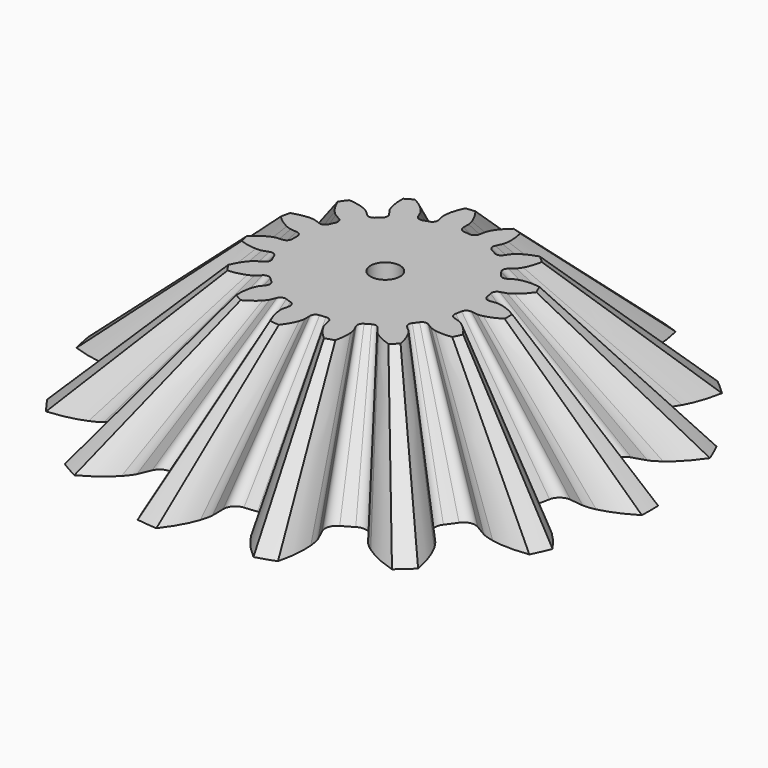
from build123d import *

# Parameters (mm, degrees)
SKETCH_R     = 0.95
POCKET_DEPTH = 8


with BuildPart() as part:
    # InvoluteGear001 → Loft section 0
    with BuildSketch(Plane.XY.offset(8)):
        with BuildLine():
            Line((6.121836, -0.735833), (6.522951, -0.783319))
            add(Edge.make_bspline(
                [(6.522951, -0.783319), (6.563364, -0.785395), (6.684848, -0.786176), (6.888225, -0.740773)],
                knots=[0, 0, 0, 0, 1, 1, 1, 1], degree=3))
            add(Edge.make_bspline(
                [(6.888225, -0.740773), (7.130918, -0.685495), (7.478291, -0.564927), (7.900262, -0.304685)],
                knots=[0, 0, 0, 0, 1, 1, 1, 1], degree=3))
            ThreePointArc((7.900262, -0.304685), (7.905568, 0.000242), (7.899108, 0.305147))
            add(Edge.make_bspline(
                [(7.899108, 0.305147), (7.478291, 0.564927), (7.130918, 0.685495), (6.888225, 0.740773)],
                knots=[0, 0, 0, 0, 1, 1, 1, 1], degree=3))
            add(Edge.make_bspline(
                [(6.888225, 0.740773), (6.684848, 0.786176), (6.563364, 0.785395), (6.522951, 0.783319)],
                knots=[0, 0, 0, 0, 1, 1, 1, 1], degree=3))
            Line((6.522951, 0.783319), (6.121836, 0.735833))
            ThreePointArc((6.121836, 0.735833), (5.863653, 0.798182), (5.721814, 1.022744))
            ThreePointArc((5.721814, 1.022744), (5.685483, 1.208487), (5.643124, 1.392948))
            ThreePointArc((5.643124, 1.392948), (5.681363, 1.655786), (5.891865, 1.817758))
            Line((5.891865, 1.817758), (6.277616, 1.937525))
            add(Edge.make_bspline(
                [(6.277616, 1.937525), (6.315381, 1.952067), (6.426679, 2.000765), (6.594006, 2.124964)],
                knots=[0, 0, 0, 0, 1, 1, 1, 1], degree=3))
            add(Edge.make_bspline(
                [(6.594006, 2.124964), (6.793234, 2.274175), (7.061536, 2.525609), (7.341175, 2.934983)],
                knots=[0, 0, 0, 0, 1, 1, 1, 1], degree=3))
            ThreePointArc((7.341175, 2.934983), (7.221997, 3.215705), (7.09208, 3.491622))
            add(Edge.make_bspline(
                [(7.09208, 3.491622), (6.601983, 3.557782), (6.235602, 3.526636), (5.991408, 3.478423)],
                knots=[0, 0, 0, 0, 1, 1, 1, 1], degree=3))
            add(Edge.make_bspline(
                [(5.991408, 3.478423), (5.787146, 3.43718), (5.676483, 3.387055), (5.640407, 3.368721)],
                knots=[0, 0, 0, 0, 1, 1, 1, 1], degree=3))
            Line((5.640407, 3.368721), (5.293285, 3.162191))
            ThreePointArc((5.293285, 3.162191), (5.032063, 3.114138), (4.81115, 3.261594))
            ThreePointArc((4.81115, 3.261594), (4.702411, 3.416502), (4.588687, 3.567787))
            ThreePointArc((4.588687, 3.567787), (4.516715, 3.823455), (4.643138, 4.057042))
            Line((4.643138, 4.057042), (4.946825, 4.323354))
            add(Edge.make_bspline(
                [(4.946825, 4.323354), (4.97541, 4.351998), (5.057279, 4.441756), (5.159624, 4.623275)],
                knots=[0, 0, 0, 0, 1, 1, 1, 1], degree=3))
            add(Edge.make_bspline(
                [(5.159624, 4.623275), (5.280937, 4.840619), (5.423776, 5.179444), (5.512732, 5.667165)],
                knots=[0, 0, 0, 0, 1, 1, 1, 1], degree=3))
            ThreePointArc((5.512732, 5.667165), (5.289678, 5.875144), (5.058767, 6.074364))
            add(Edge.make_bspline(
                [(5.058767, 6.074364), (4.584131, 5.935464), (4.262094, 5.75799), (4.058621, 5.614623)],
                knots=[0, 0, 0, 0, 1, 1, 1, 1], degree=3))
            add(Edge.make_bspline(
                [(4.058621, 5.614623), (3.888794, 5.493864), (3.808086, 5.403062), (3.782586, 5.37164)],
                knots=[0, 0, 0, 0, 1, 1, 1, 1], degree=3))
            Line((3.782586, 5.37164), (3.549477, 5.041779))
            ThreePointArc((3.549477, 5.041779), (3.330384, 4.891631), (3.068594, 4.936485))
            ThreePointArc((3.068594, 4.936485), (2.90625, 5.033773), (2.740825, 5.125723))
            ThreePointArc((2.740825, 5.125723), (2.571085, 5.330013), (2.59157, 5.594827))
            Line((2.59157, 5.594827), (2.760683, 5.961636))
            add(Edge.make_bspline(
                [(2.760683, 5.961636), (2.775146, 5.99943), (2.813429, 6.114727), (2.833095, 6.32218)],
                knots=[0, 0, 0, 0, 1, 1, 1, 1], degree=3))
            add(Edge.make_bspline(
                [(2.833095, 6.32218), (2.855519, 6.570077), (2.848197, 6.937706), (2.731088, 7.419443)],
                knots=[0, 0, 0, 0, 1, 1, 1, 1], degree=3))
            ThreePointArc((2.731088, 7.419443), (2.442725, 7.518717), (2.150747, 7.606794))
            add(Edge.make_bspline(
                [(2.150747, 7.606794), (1.773641, 7.28685), (1.551631, 6.993736), (1.424062, 6.780003)],
                knots=[0, 0, 0, 0, 1, 1, 1, 1], degree=3))
            add(Edge.make_bspline(
                [(1.424062, 6.780003), (1.318034, 6.60061), (1.281236, 6.484831), (1.270722, 6.445754)],
                knots=[0, 0, 0, 0, 1, 1, 1, 1], degree=3))
            Line((1.270722, 6.445754), (1.191933, 6.049597))
            ThreePointArc((1.191933, 6.049597), (1.052852, 5.823317), (0.795451, 5.757813))
            ThreePointArc((0.795451, 5.757813), (0.607572, 5.780659), (0.419049, 5.797375))
            ThreePointArc((0.419049, 5.797375), (0.180891, 5.914964), (0.091896, 6.165215))
            Line((0.091896, 6.165215), (0.097194, 6.569096))
            add(Edge.make_bspline(
                [(0.097194, 6.569096), (0.095034, 6.609506), (0.083112, 6.730405), (0.016699, 6.927923)],
                knots=[0, 0, 0, 0, 1, 1, 1, 1], degree=3))
            add(Edge.make_bspline(
                [(0.016699, 6.927923), (-0.063644, 7.163508), (-0.219862, 7.496376), (-0.522787, 7.888832)],
                knots=[0, 0, 0, 0, 1, 1, 1, 1], degree=3))
            ThreePointArc((-0.522787, 7.888832), (-0.826598, 7.862235), (-1.129157, 7.82394))
            add(Edge.make_bspline(
                [(-1.129157, 7.82394), (-1.343527, 7.378274), (-1.427123, 7.0202), (-1.45673, 6.773059)],
                knots=[0, 0, 0, 0, 1, 1, 1, 1], degree=3))
            add(Edge.make_bspline(
                [(-1.45673, 6.773059), (-1.480626, 6.56605), (-1.467151, 6.445313), (-1.460862, 6.405338)],
                knots=[0, 0, 0, 0, 1, 1, 1, 1], degree=3))
            Line((-1.460862, 6.405338), (-1.371708, 6.011384))
            ThreePointArc((-1.371708, 6.011384), (-1.406728, 5.748098), (-1.615233, 5.583563))
            ThreePointArc((-1.615233, 5.583563), (-1.796161, 5.528016), (-1.975185, 5.466608))
            ThreePointArc((-1.975185, 5.466608), (-2.24058, 5.477163), (-2.423668, 5.669582))
            Line((-2.423668, 5.669582), (-2.583101, 6.0407))
            add(Edge.make_bspline(
                [(-2.583101, 6.0407), (-2.60151, 6.076738), (-2.661576, 6.182336), (-2.802585, 6.335765)],
                knots=[0, 0, 0, 0, 1, 1, 1, 1], degree=3))
            add(Edge.make_bspline(
                [(-2.802585, 6.335765), (-2.971803, 6.518304), (-3.249904, 6.758854), (-3.686267, 6.99417)],
                knots=[0, 0, 0, 0, 1, 1, 1, 1], degree=3))
            ThreePointArc((-3.686267, 6.99417), (-3.952994, 6.846302), (-4.213819, 6.688255))
            add(Edge.make_bspline(
                [(-4.213819, 6.688255), (-4.228387, 6.193927), (-4.159115, 5.832809), (-4.085641, 5.594992)],
                knots=[0, 0, 0, 0, 1, 1, 1, 1], degree=3))
            add(Edge.make_bspline(
                [(-4.085641, 5.594992), (-4.023272, 5.39616), (-3.961854, 5.291343), (-3.93985, 5.257381)],
                knots=[0, 0, 0, 0, 1, 1, 1, 1], degree=3))
            Line((-3.93985, 5.257381), (-3.698168, 4.933749))
            ThreePointArc((-3.698168, 4.933749), (-3.623073, 4.678981), (-3.746629, 4.443864))
            ThreePointArc((-3.746629, 4.443864), (-3.889322, 4.319529), (-4.027891, 4.190615))
            ThreePointArc((-4.027891, 4.190615), (-4.274635, 4.092312), (-4.520158, 4.193626))
            Line((-4.520158, 4.193626), (-4.816754, 4.467813))
            add(Edge.make_bspline(
                [(-4.816754, 4.467813), (-4.84823, 4.493247), (-4.946053, 4.565285), (-5.137276, 4.648095)],
                knots=[0, 0, 0, 0, 1, 1, 1, 1], degree=3))
            add(Edge.make_bspline(
                [(-5.137276, 4.648095), (-5.36611, 4.746025), (-5.718009, 4.852665), (-6.212357, 4.890153)],
                knots=[0, 0, 0, 0, 1, 1, 1, 1], degree=3))
            ThreePointArc((-6.212357, 4.890153), (-6.395881, 4.646581), (-6.569874, 4.39611))
            add(Edge.make_bspline(
                [(-6.569874, 4.39611), (-6.382121, 3.938594), (-6.171958, 3.636872), (-6.008107, 3.4495)],
                knots=[0, 0, 0, 0, 1, 1, 1, 1], degree=3))
            add(Edge.make_bspline(
                [(-6.008107, 3.4495), (-5.870258, 3.293226), (-5.771517, 3.222451), (-5.737601, 3.200376)],
                knots=[0, 0, 0, 0, 1, 1, 1, 1], degree=3))
            Line((-5.737601, 3.200376), (-5.385181, 3.003024))
            ThreePointArc((-5.385181, 3.003024), (-5.212954, 2.800825), (-5.230198, 2.535781))
            ThreePointArc((-5.230198, 2.535781), (-5.309983, 2.364157), (-5.384138, 2.190026))
            ThreePointArc((-5.384138, 2.190026), (-5.569566, 1.999862), (-5.835071, 1.992554))
            Line((-5.835071, 1.992554), (-6.217547, 2.122399))
            add(Edge.make_bspline(
                [(-6.217547, 2.122399), (-6.256646, 2.132832), (-6.375313, 2.158854), (-6.583686, 2.156728)],
                knots=[0, 0, 0, 0, 1, 1, 1, 1], degree=3))
            add(Edge.make_bspline(
                [(-6.583686, 2.156728), (-6.832568, 2.153116), (-7.197418, 2.107406), (-7.664275, 1.940584)],
                knots=[0, 0, 0, 0, 1, 1, 1, 1], degree=3))
            ThreePointArc((-7.664275, 1.940584), (-7.732863, 1.643423), (-7.789937, 1.343838))
            add(Edge.make_bspline(
                [(-7.789937, 1.343838), (-7.432328, 1.002242), (-7.117613, 0.812086), (-6.891716, 0.707558)],
                knots=[0, 0, 0, 0, 1, 1, 1, 1], degree=3))
            add(Edge.make_bspline(
                [(-6.891716, 0.707558), (-6.702223, 0.620862), (-6.583232, 0.596368), (-6.54327, 0.589996)],
                knots=[0, 0, 0, 0, 1, 1, 1, 1], degree=3))
            Line((-6.54327, 0.589996), (-6.141047, 0.553048))
            ThreePointArc((-6.141047, 0.553048), (-5.901469, 0.438382), (-5.809419, 0.189238))
            ThreePointArc((-5.809419, 0.189238), (-5.8125, 0), (-5.809419, -0.189238))
            ThreePointArc((-5.809419, -0.189238), (-5.901469, -0.438382), (-6.141047, -0.553048))
            Line((-6.141047, -0.553048), (-6.54327, -0.589996))
            add(Edge.make_bspline(
                [(-6.54327, -0.589996), (-6.583232, -0.596368), (-6.702223, -0.620862), (-6.891716, -0.707558)],
                knots=[0, 0, 0, 0, 1, 1, 1, 1], degree=3))
            add(Edge.make_bspline(
                [(-6.891716, -0.707558), (-7.117613, -0.812086), (-7.432328, -1.002242), (-7.79097, -1.34453)],
                knots=[0, 0, 0, 0, 1, 1, 1, 1], degree=3))
            ThreePointArc((-7.79097, -1.34453), (-7.732762, -1.643897), (-7.66305, -1.940795))
            add(Edge.make_bspline(
                [(-7.66305, -1.940795), (-7.197418, -2.107406), (-6.832568, -2.153116), (-6.583686, -2.156728)],
                knots=[0, 0, 0, 0, 1, 1, 1, 1], degree=3))
            add(Edge.make_bspline(
                [(-6.583686, -2.156728), (-6.375313, -2.158854), (-6.256646, -2.132832), (-6.217547, -2.122399)],
                knots=[0, 0, 0, 0, 1, 1, 1, 1], degree=3))
            Line((-6.217547, -2.122399), (-5.835071, -1.992554))
            ThreePointArc((-5.835071, -1.992554), (-5.569566, -1.999862), (-5.384138, -2.190026))
            ThreePointArc((-5.384138, -2.190026), (-5.309983, -2.364157), (-5.230198, -2.535781))
            ThreePointArc((-5.230198, -2.535781), (-5.212954, -2.800825), (-5.385181, -3.003024))
            Line((-5.385181, -3.003024), (-5.737601, -3.200376))
            add(Edge.make_bspline(
                [(-5.737601, -3.200376), (-5.771517, -3.222451), (-5.870258, -3.293226), (-6.008107, -3.4495)],
                knots=[0, 0, 0, 0, 1, 1, 1, 1], degree=3))
            add(Edge.make_bspline(
                [(-6.008107, -3.4495), (-6.171958, -3.636872), (-6.382121, -3.938594), (-6.570536, -4.397163)],
                knots=[0, 0, 0, 0, 1, 1, 1, 1], degree=3))
            ThreePointArc((-6.570536, -4.397163), (-6.395597, -4.646972), (-6.211152, -4.889848))
            add(Edge.make_bspline(
                [(-6.211152, -4.889848), (-5.718009, -4.852665), (-5.36611, -4.746025), (-5.137276, -4.648095)],
                knots=[0, 0, 0, 0, 1, 1, 1, 1], degree=3))
            add(Edge.make_bspline(
                [(-5.137276, -4.648095), (-4.946053, -4.565285), (-4.84823, -4.493247), (-4.816754, -4.467813)],
                knots=[0, 0, 0, 0, 1, 1, 1, 1], degree=3))
            Line((-4.816754, -4.467813), (-4.520158, -4.193626))
            ThreePointArc((-4.520158, -4.193626), (-4.274635, -4.092312), (-4.027891, -4.190615))
            ThreePointArc((-4.027891, -4.190615), (-3.889322, -4.319529), (-3.746629, -4.443864))
            ThreePointArc((-3.746629, -4.443864), (-3.623073, -4.678981), (-3.698168, -4.933749))
            Line((-3.698168, -4.933749), (-3.93985, -5.257381))
            add(Edge.make_bspline(
                [(-3.93985, -5.257381), (-3.961854, -5.291343), (-4.023272, -5.39616), (-4.085641, -5.594992)],
                knots=[0, 0, 0, 0, 1, 1, 1, 1], degree=3))
            add(Edge.make_bspline(
                [(-4.085641, -5.594992), (-4.159115, -5.832809), (-4.228387, -6.193927), (-4.213996, -6.689486)],
                knots=[0, 0, 0, 0, 1, 1, 1, 1], degree=3))
            ThreePointArc((-4.213996, -6.689486), (-3.952574, -6.846544), (-3.685289, -6.993402))
            add(Edge.make_bspline(
                [(-3.685289, -6.993402), (-3.249904, -6.758854), (-2.971803, -6.518304), (-2.802585, -6.335765)],
                knots=[0, 0, 0, 0, 1, 1, 1, 1], degree=3))
            add(Edge.make_bspline(
                [(-2.802585, -6.335765), (-2.661576, -6.182336), (-2.60151, -6.076738), (-2.583101, -6.0407)],
                knots=[0, 0, 0, 0, 1, 1, 1, 1], degree=3))
            Line((-2.583101, -6.0407), (-2.423668, -5.669582))
            ThreePointArc((-2.423668, -5.669582), (-2.24058, -5.477163), (-1.975185, -5.466608))
            ThreePointArc((-1.975185, -5.466608), (-1.796161, -5.528016), (-1.615233, -5.583563))
            ThreePointArc((-1.615233, -5.583563), (-1.406728, -5.748098), (-1.371708, -6.011384))
            Line((-1.371708, -6.011384), (-1.460862, -6.405338))
            add(Edge.make_bspline(
                [(-1.460862, -6.405338), (-1.467151, -6.445313), (-1.480626, -6.56605), (-1.45673, -6.773059)],
                knots=[0, 0, 0, 0, 1, 1, 1, 1], degree=3))
            add(Edge.make_bspline(
                [(-1.45673, -6.773059), (-1.427123, -7.0202), (-1.343527, -7.378274), (-1.128818, -7.825136)],
                knots=[0, 0, 0, 0, 1, 1, 1, 1], degree=3))
            ThreePointArc((-1.128818, -7.825136), (-0.826116, -7.862286), (-0.522207, -7.887733))
            add(Edge.make_bspline(
                [(-0.522207, -7.887733), (-0.219862, -7.496376), (-0.063644, -7.163508), (0.016699, -6.927923)],
                knots=[0, 0, 0, 0, 1, 1, 1, 1], degree=3))
            add(Edge.make_bspline(
                [(0.016699, -6.927923), (0.083112, -6.730405), (0.095034, -6.609506), (0.097194, -6.569096)],
                knots=[0, 0, 0, 0, 1, 1, 1, 1], degree=3))
            Line((0.097194, -6.569096), (0.091896, -6.165215))
            ThreePointArc((0.091896, -6.165215), (0.180891, -5.914964), (0.419049, -5.797375))
            ThreePointArc((0.419049, -5.797375), (0.607572, -5.780659), (0.795451, -5.757813))
            ThreePointArc((0.795451, -5.757813), (1.052852, -5.823317), (1.191933, -6.049597))
            Line((1.191933, -6.049597), (1.270722, -6.445754))
            add(Edge.make_bspline(
                [(1.270722, -6.445754), (1.281236, -6.484831), (1.318034, -6.60061), (1.424062, -6.780003)],
                knots=[0, 0, 0, 0, 1, 1, 1, 1], degree=3))
            add(Edge.make_bspline(
                [(1.424062, -6.780003), (1.551631, -6.993736), (1.773641, -7.28685), (2.151543, -7.607749)],
                knots=[0, 0, 0, 0, 1, 1, 1, 1], degree=3))
            ThreePointArc((2.151543, -7.607749), (2.443185, -7.518567), (2.73117, -7.418203))
            add(Edge.make_bspline(
                [(2.73117, -7.418203), (2.848197, -6.937706), (2.855519, -6.570077), (2.833095, -6.32218)],
                knots=[0, 0, 0, 0, 1, 1, 1, 1], degree=3))
            add(Edge.make_bspline(
                [(2.833095, -6.32218), (2.813429, -6.114727), (2.775146, -5.99943), (2.760683, -5.961636)],
                knots=[0, 0, 0, 0, 1, 1, 1, 1], degree=3))
            Line((2.760683, -5.961636), (2.59157, -5.594827))
            ThreePointArc((2.59157, -5.594827), (2.571085, -5.330013), (2.740825, -5.125723))
            ThreePointArc((2.740825, -5.125723), (2.90625, -5.033773), (3.068594, -4.936485))
            ThreePointArc((3.068594, -4.936485), (3.330384, -4.891631), (3.549477, -5.041779))
            Line((3.549477, -5.041779), (3.782586, -5.37164))
            add(Edge.make_bspline(
                [(3.782586, -5.37164), (3.808086, -5.403062), (3.888794, -5.493864), (4.058621, -5.614623)],
                knots=[0, 0, 0, 0, 1, 1, 1, 1], degree=3))
            add(Edge.make_bspline(
                [(4.058621, -5.614623), (4.262094, -5.75799), (4.584131, -5.935464), (5.059883, -6.074913)],
                knots=[0, 0, 0, 0, 1, 1, 1, 1], degree=3))
            ThreePointArc((5.059883, -6.074913), (5.290038, -5.87482), (5.512303, -5.665998))
            add(Edge.make_bspline(
                [(5.512303, -5.665998), (5.423776, -5.179444), (5.280937, -4.840619), (5.159624, -4.623275)],
                knots=[0, 0, 0, 0, 1, 1, 1, 1], degree=3))
            add(Edge.make_bspline(
                [(5.159624, -4.623275), (5.057279, -4.441756), (4.97541, -4.351998), (4.946825, -4.323354)],
                knots=[0, 0, 0, 0, 1, 1, 1, 1], degree=3))
            Line((4.946825, -4.323354), (4.643138, -4.057042))
            ThreePointArc((4.643138, -4.057042), (4.516715, -3.823455), (4.588687, -3.567787))
            ThreePointArc((4.588687, -3.567787), (4.702411, -3.416502), (4.81115, -3.261594))
            ThreePointArc((4.81115, -3.261594), (5.032063, -3.114138), (5.293285, -3.162191))
            Line((5.293285, -3.162191), (5.640407, -3.368721))
            add(Edge.make_bspline(
                [(5.640407, -3.368721), (5.676483, -3.387055), (5.787146, -3.43718), (5.991408, -3.478423)],
                knots=[0, 0, 0, 0, 1, 1, 1, 1], degree=3))
            add(Edge.make_bspline(
                [(5.991408, -3.478423), (6.235602, -3.526636), (6.601983, -3.557782), (7.093322, -3.49167)],
                knots=[0, 0, 0, 0, 1, 1, 1, 1], degree=3))
            ThreePointArc((7.093322, -3.49167), (7.222194, -3.215263), (7.340309, -2.934091))
            add(Edge.make_bspline(
                [(7.340309, -2.934091), (7.061536, -2.525609), (6.793234, -2.274175), (6.594006, -2.124964)],
                knots=[0, 0, 0, 0, 1, 1, 1, 1], degree=3))
            add(Edge.make_bspline(
                [(6.594006, -2.124964), (6.426679, -2.000765), (6.315381, -1.952067), (6.277616, -1.937525)],
                knots=[0, 0, 0, 0, 1, 1, 1, 1], degree=3))
            Line((6.277616, -1.937525), (5.891865, -1.817758))
            ThreePointArc((5.891865, -1.817758), (5.681363, -1.655786), (5.643124, -1.392948))
            ThreePointArc((5.643124, -1.392948), (5.685483, -1.208487), (5.721814, -1.022744))
            ThreePointArc((5.721814, -1.022744), (5.863653, -0.798182), (6.121836, -0.735833))
        make_face()
    # InvoluteGear → Loft section 1
    with BuildSketch(Plane.XY):
        with BuildLine():
            Line((13.165238, -1.582436), (14.027851, -1.684557))
            add(Edge.make_bspline(
                [(14.027851, -1.684557), (14.114762, -1.689022), (14.376017, -1.6907), (14.813388, -1.593059)],
                knots=[0, 0, 0, 0, 1, 1, 1, 1], degree=3))
            add(Edge.make_bspline(
                [(14.813388, -1.593059), (15.335308, -1.474182), (16.082347, -1.214897), (16.989812, -0.655236)],
                knots=[0, 0, 0, 0, 1, 1, 1, 1], degree=3))
            ThreePointArc((16.989812, -0.655236), (17.001222, 0.000521), (16.987329, 0.656229))
            add(Edge.make_bspline(
                [(16.987329, 0.656229), (16.082347, 1.214897), (15.335308, 1.474182), (14.813388, 1.593059)],
                knots=[0, 0, 0, 0, 1, 1, 1, 1], degree=3))
            add(Edge.make_bspline(
                [(14.813388, 1.593059), (14.376017, 1.6907), (14.114762, 1.689022), (14.027851, 1.684557)],
                knots=[0, 0, 0, 0, 1, 1, 1, 1], degree=3))
            Line((14.027851, 1.684557), (13.165238, 1.582436))
            ThreePointArc((13.165238, 1.582436), (12.610006, 1.716521), (12.304976, 2.199449))
            ThreePointArc((12.304976, 2.199449), (12.226845, 2.598896), (12.135751, 2.995588))
            ThreePointArc((12.135751, 2.995588), (12.217985, 3.560831), (12.670678, 3.909158))
            Line((12.670678, 3.909158), (13.50025, 4.166721))
            add(Edge.make_bspline(
                [(13.50025, 4.166721), (13.581464, 4.197993), (13.820815, 4.302721), (14.180659, 4.569815)],
                knots=[0, 0, 0, 0, 1, 1, 1, 1], degree=3))
            add(Edge.make_bspline(
                [(14.180659, 4.569815), (14.609105, 4.890699), (15.186098, 5.431416), (15.787474, 6.311791)],
                knots=[0, 0, 0, 0, 1, 1, 1, 1], degree=3))
            ThreePointArc((15.787474, 6.311791), (15.531177, 6.915496), (15.251785, 7.508865))
            add(Edge.make_bspline(
                [(15.251785, 7.508865), (14.197812, 7.651144), (13.409897, 7.584164), (12.884748, 7.48048)],
                knots=[0, 0, 0, 0, 1, 1, 1, 1], degree=3))
            add(Edge.make_bspline(
                [(12.884748, 7.48048), (12.445476, 7.391785), (12.207489, 7.283989), (12.129908, 7.24456)],
                knots=[0, 0, 0, 0, 1, 1, 1, 1], degree=3))
            Line((12.129908, 7.24456), (11.383409, 6.800412))
            ThreePointArc((11.383409, 6.800412), (10.821641, 6.697072), (10.346558, 7.014181))
            ThreePointArc((10.346558, 7.014181), (10.112712, 7.347316), (9.868145, 7.67266))
            ThreePointArc((9.868145, 7.67266), (9.713365, 8.222483), (9.985243, 8.724823))
            Line((9.985243, 8.724823), (10.638334, 9.297536))
            add(Edge.make_bspline(
                [(10.638334, 9.297536), (10.699807, 9.359136), (10.875868, 9.552164), (11.095965, 9.942528)],
                knots=[0, 0, 0, 0, 1, 1, 1, 1], degree=3))
            add(Edge.make_bspline(
                [(11.095965, 9.942528), (11.356854, 10.409934), (11.664035, 11.138588), (11.855338, 12.187452)],
                knots=[0, 0, 0, 0, 1, 1, 1, 1], degree=3))
            ThreePointArc((11.855338, 12.187452), (11.375651, 12.634719), (10.879069, 13.063149))
            add(Edge.make_bspline(
                [(10.879069, 13.063149), (9.858346, 12.764438), (9.165793, 12.382775), (8.728217, 12.074457)],
                knots=[0, 0, 0, 0, 1, 1, 1, 1], degree=3))
            add(Edge.make_bspline(
                [(8.728217, 12.074457), (8.362998, 11.814762), (8.189431, 11.619488), (8.134594, 11.551913)],
                knots=[0, 0, 0, 0, 1, 1, 1, 1], degree=3))
            Line((8.134594, 11.551913), (7.633285, 10.842535))
            ThreePointArc((7.633285, 10.842535), (7.162117, 10.519637), (6.599127, 10.616097))
            ThreePointArc((6.599127, 10.616097), (6.25, 10.825318), (5.894247, 11.02306))
            ThreePointArc((5.894247, 11.02306), (5.529215, 11.462394), (5.573268, 12.031886))
            Line((5.573268, 12.031886), (5.936953, 12.820722))
            add(Edge.make_bspline(
                [(5.936953, 12.820722), (5.968056, 12.902), (6.050385, 13.14995), (6.092678, 13.596087)],
                knots=[0, 0, 0, 0, 1, 1, 1, 1], degree=3))
            add(Edge.make_bspline(
                [(6.092678, 13.596087), (6.140901, 14.129197), (6.125154, 14.919797), (5.873307, 15.955792)],
                knots=[0, 0, 0, 0, 1, 1, 1, 1], degree=3))
            ThreePointArc((5.873307, 15.955792), (5.253171, 16.169284), (4.625262, 16.358696))
            add(Edge.make_bspline(
                [(4.625262, 16.358696), (3.814283, 15.670645), (3.33684, 15.040292), (3.062499, 14.580652)],
                knots=[0, 0, 0, 0, 1, 1, 1, 1], degree=3))
            add(Edge.make_bspline(
                [(3.062499, 14.580652), (2.834482, 14.19486), (2.755346, 13.945873), (2.732735, 13.861836)],
                knots=[0, 0, 0, 0, 1, 1, 1, 1], degree=3))
            Line((2.732735, 13.861836), (2.563297, 13.009885))
            ThreePointArc((2.563297, 13.009885), (2.264197, 12.523262), (1.710647, 12.382394))
            ThreePointArc((1.710647, 12.382394), (1.306606, 12.431524), (0.90118, 12.467473))
            ThreePointArc((0.90118, 12.467473), (0.389014, 12.720352), (0.197625, 13.258527))
            Line((0.197625, 13.258527), (0.209019, 14.127089))
            add(Edge.make_bspline(
                [(0.209019, 14.127089), (0.204375, 14.21399), (0.178735, 14.47399), (0.035912, 14.898759)],
                knots=[0, 0, 0, 0, 1, 1, 1, 1], degree=3))
            add(Edge.make_bspline(
                [(0.035912, 14.898759), (-0.13687, 15.405393), (-0.472821, 16.121238), (-1.124272, 16.965231)],
                knots=[0, 0, 0, 0, 1, 1, 1, 1], degree=3))
            ThreePointArc((-1.124272, 16.965231), (-1.777629, 16.908033), (-2.428294, 16.825676))
            add(Edge.make_bspline(
                [(-2.428294, 16.825676), (-2.889305, 15.867255), (-3.069082, 15.097205), (-3.132753, 14.565719)],
                knots=[0, 0, 0, 0, 1, 1, 1, 1], degree=3))
            add(Edge.make_bspline(
                [(-3.132753, 14.565719), (-3.184141, 14.120538), (-3.155163, 13.860889), (-3.141639, 13.77492)],
                knots=[0, 0, 0, 0, 1, 1, 1, 1], degree=3))
            Line((-3.141639, 13.77492), (-2.949909, 12.927708))
            ThreePointArc((-2.949909, 12.927708), (-3.025223, 12.361501), (-3.47362, 12.007663))
            ThreePointArc((-3.47362, 12.007663), (-3.862712, 11.888206), (-4.247709, 11.756146))
            ThreePointArc((-4.247709, 11.756146), (-4.818452, 11.778846), (-5.21219, 12.192649))
            Line((-5.21219, 12.192649), (-5.555056, 12.990754))
            add(Edge.make_bspline(
                [(-5.555056, 12.990754), (-5.594645, 13.068253), (-5.723819, 13.295346), (-6.027064, 13.6253)],
                knots=[0, 0, 0, 0, 1, 1, 1, 1], degree=3))
            add(Edge.make_bspline(
                [(-6.027064, 13.6253), (-6.390975, 14.017857), (-6.989042, 14.53517), (-7.927455, 15.041227)],
                knots=[0, 0, 0, 0, 1, 1, 1, 1], degree=3))
            ThreePointArc((-7.927455, 15.041227), (-8.501062, 14.72323), (-9.061976, 14.383344))
            add(Edge.make_bspline(
                [(-9.061976, 14.383344), (-9.093305, 13.320273), (-8.944333, 12.543675), (-8.786324, 12.032241)],
                knots=[0, 0, 0, 0, 1, 1, 1, 1], degree=3))
            add(Edge.make_bspline(
                [(-8.786324, 12.032241), (-8.652198, 11.604646), (-8.520117, 11.379231), (-8.472795, 11.306196)],
                knots=[0, 0, 0, 0, 1, 1, 1, 1], degree=3))
            Line((-8.472795, 11.306196), (-7.953049, 10.610213))
            ThreePointArc((-7.953049, 10.610213), (-7.791554, 10.062325), (-8.057266, 9.556697))
            ThreePointArc((-8.057266, 9.556697), (-8.364133, 9.28931), (-8.662131, 9.012075))
            ThreePointArc((-8.662131, 9.012075), (-9.192763, 8.80067), (-9.720769, 9.01855))
            Line((-9.720769, 9.01855), (-10.358612, 9.608199))
            add(Edge.make_bspline(
                [(-10.358612, 9.608199), (-10.4263, 9.662896), (-10.636674, 9.817816), (-11.047906, 9.995903)],
                knots=[0, 0, 0, 0, 1, 1, 1, 1], degree=3))
            add(Edge.make_bspline(
                [(-11.047906, 9.995903), (-11.540022, 10.206506), (-12.296794, 10.435839), (-13.359908, 10.516458)],
                knots=[0, 0, 0, 0, 1, 1, 1, 1], degree=3))
            ThreePointArc((-13.359908, 10.516458), (-13.754584, 9.992646), (-14.12876, 9.454001))
            add(Edge.make_bspline(
                [(-14.12876, 9.454001), (-13.724991, 8.470094), (-13.273027, 7.821229), (-12.92066, 7.418279)],
                knots=[0, 0, 0, 0, 1, 1, 1, 1], degree=3))
            add(Edge.make_bspline(
                [(-12.92066, 7.418279), (-12.624211, 7.082206), (-12.411864, 6.930002), (-12.338927, 6.882528)],
                knots=[0, 0, 0, 0, 1, 1, 1, 1], degree=3))
            Line((-12.338927, 6.882528), (-11.581034, 6.458116))
            ThreePointArc((-11.581034, 6.458116), (-11.210655, 6.02328), (-11.247738, 5.453292))
            ThreePointArc((-11.247738, 5.453292), (-11.419318, 5.084208), (-11.578791, 4.709734))
            ThreePointArc((-11.578791, 4.709734), (-11.977562, 4.300779), (-12.548539, 4.285063))
            Line((-12.548539, 4.285063), (-13.371069, 4.5643))
            add(Edge.make_bspline(
                [(-13.371069, 4.5643), (-13.455153, 4.586737), (-13.710351, 4.642696), (-14.158464, 4.638124)],
                knots=[0, 0, 0, 0, 1, 1, 1, 1], degree=3))
            add(Edge.make_bspline(
                [(-14.158464, 4.638124), (-14.693695, 4.630357), (-15.478318, 4.532057), (-16.482312, 4.173298)],
                knots=[0, 0, 0, 0, 1, 1, 1, 1], degree=3))
            ThreePointArc((-16.482312, 4.173298), (-16.629813, 3.534243), (-16.752553, 2.889975))
            add(Edge.make_bspline(
                [(-16.752553, 2.889975), (-15.983501, 2.155359), (-15.306694, 1.746422), (-14.820896, 1.521629)],
                knots=[0, 0, 0, 0, 1, 1, 1, 1], degree=3))
            add(Edge.make_bspline(
                [(-14.820896, 1.521629), (-14.413383, 1.335188), (-14.157488, 1.282511), (-14.071548, 1.268809)],
                knots=[0, 0, 0, 0, 1, 1, 1, 1], degree=3))
            Line((-14.071548, 1.268809), (-13.206553, 1.189351))
            ThreePointArc((-13.206553, 1.189351), (-12.691332, 0.942756), (-12.493373, 0.406963))
            ThreePointArc((-12.493373, 0.406963), (-12.5, 0), (-12.493373, -0.406963))
            ThreePointArc((-12.493373, -0.406963), (-12.691332, -0.942756), (-13.206553, -1.189351))
            Line((-13.206553, -1.189351), (-14.071548, -1.268809))
            add(Edge.make_bspline(
                [(-14.071548, -1.268809), (-14.157488, -1.282511), (-14.413383, -1.335188), (-14.820896, -1.521629)],
                knots=[0, 0, 0, 0, 1, 1, 1, 1], degree=3))
            add(Edge.make_bspline(
                [(-14.820896, -1.521629), (-15.306694, -1.746422), (-15.983501, -2.155359), (-16.754775, -2.891463)],
                knots=[0, 0, 0, 0, 1, 1, 1, 1], degree=3))
            ThreePointArc((-16.754775, -2.891463), (-16.629596, -3.535262), (-16.479678, -4.173754))
            add(Edge.make_bspline(
                [(-16.479678, -4.173754), (-15.478318, -4.532057), (-14.693695, -4.630357), (-14.158464, -4.638124)],
                knots=[0, 0, 0, 0, 1, 1, 1, 1], degree=3))
            add(Edge.make_bspline(
                [(-14.158464, -4.638124), (-13.710351, -4.642696), (-13.455153, -4.586737), (-13.371069, -4.5643)],
                knots=[0, 0, 0, 0, 1, 1, 1, 1], degree=3))
            Line((-13.371069, -4.5643), (-12.548539, -4.285063))
            ThreePointArc((-12.548539, -4.285063), (-11.977562, -4.300779), (-11.578791, -4.709734))
            ThreePointArc((-11.578791, -4.709734), (-11.419318, -5.084208), (-11.247738, -5.453292))
            ThreePointArc((-11.247738, -5.453292), (-11.210655, -6.02328), (-11.581034, -6.458116))
            Line((-11.581034, -6.458116), (-12.338927, -6.882528))
            add(Edge.make_bspline(
                [(-12.338927, -6.882528), (-12.411864, -6.930002), (-12.624211, -7.082206), (-12.92066, -7.418279)],
                knots=[0, 0, 0, 0, 1, 1, 1, 1], degree=3))
            add(Edge.make_bspline(
                [(-12.92066, -7.418279), (-13.273027, -7.821229), (-13.724991, -8.470094), (-14.130184, -9.456264)],
                knots=[0, 0, 0, 0, 1, 1, 1, 1], degree=3))
            ThreePointArc((-14.130184, -9.456264), (-13.753971, -9.993489), (-13.357316, -10.515803))
            add(Edge.make_bspline(
                [(-13.357316, -10.515803), (-12.296794, -10.435839), (-11.540022, -10.206506), (-11.047906, -9.995903)],
                knots=[0, 0, 0, 0, 1, 1, 1, 1], degree=3))
            add(Edge.make_bspline(
                [(-11.047906, -9.995903), (-10.636674, -9.817816), (-10.4263, -9.662896), (-10.358612, -9.608199)],
                knots=[0, 0, 0, 0, 1, 1, 1, 1], degree=3))
            Line((-10.358612, -9.608199), (-9.720769, -9.01855))
            ThreePointArc((-9.720769, -9.01855), (-9.192763, -8.80067), (-8.662131, -9.012075))
            ThreePointArc((-8.662131, -9.012075), (-8.364133, -9.28931), (-8.057266, -9.556697))
            ThreePointArc((-8.057266, -9.556697), (-7.791554, -10.062325), (-7.953049, -10.610213))
            Line((-7.953049, -10.610213), (-8.472795, -11.306196))
            add(Edge.make_bspline(
                [(-8.472795, -11.306196), (-8.520117, -11.379231), (-8.652198, -11.604646), (-8.786324, -12.032241)],
                knots=[0, 0, 0, 0, 1, 1, 1, 1], degree=3))
            add(Edge.make_bspline(
                [(-8.786324, -12.032241), (-8.944333, -12.543675), (-9.093305, -13.320273), (-9.062357, -14.385991)],
                knots=[0, 0, 0, 0, 1, 1, 1, 1], degree=3))
            ThreePointArc((-9.062357, -14.385991), (-8.50016, -14.72375), (-7.925353, -15.039574))
            add(Edge.make_bspline(
                [(-7.925353, -15.039574), (-6.989042, -14.53517), (-6.390975, -14.017857), (-6.027064, -13.6253)],
                knots=[0, 0, 0, 0, 1, 1, 1, 1], degree=3))
            add(Edge.make_bspline(
                [(-6.027064, -13.6253), (-5.723819, -13.295346), (-5.594645, -13.068253), (-5.555056, -12.990754)],
                knots=[0, 0, 0, 0, 1, 1, 1, 1], degree=3))
            Line((-5.555056, -12.990754), (-5.21219, -12.192649))
            ThreePointArc((-5.21219, -12.192649), (-4.818452, -11.778846), (-4.247709, -11.756146))
            ThreePointArc((-4.247709, -11.756146), (-3.862712, -11.888206), (-3.47362, -12.007663))
            ThreePointArc((-3.47362, -12.007663), (-3.025223, -12.361501), (-2.949909, -12.927708))
            Line((-2.949909, -12.927708), (-3.141639, -13.77492))
            add(Edge.make_bspline(
                [(-3.141639, -13.77492), (-3.155163, -13.860889), (-3.184141, -14.120538), (-3.132753, -14.565719)],
                knots=[0, 0, 0, 0, 1, 1, 1, 1], degree=3))
            add(Edge.make_bspline(
                [(-3.132753, -14.565719), (-3.069082, -15.097205), (-2.889305, -15.867255), (-2.427565, -16.828249)],
                knots=[0, 0, 0, 0, 1, 1, 1, 1], degree=3))
            ThreePointArc((-2.427565, -16.828249), (-1.776594, -16.908142), (-1.123025, -16.962866))
            add(Edge.make_bspline(
                [(-1.123025, -16.962866), (-0.472821, -16.121238), (-0.13687, -15.405393), (0.035912, -14.898759)],
                knots=[0, 0, 0, 0, 1, 1, 1, 1], degree=3))
            add(Edge.make_bspline(
                [(0.035912, -14.898759), (0.178735, -14.47399), (0.204375, -14.21399), (0.209019, -14.127089)],
                knots=[0, 0, 0, 0, 1, 1, 1, 1], degree=3))
            Line((0.209019, -14.127089), (0.197625, -13.258527))
            ThreePointArc((0.197625, -13.258527), (0.389014, -12.720352), (0.90118, -12.467473))
            ThreePointArc((0.90118, -12.467473), (1.306606, -12.431524), (1.710647, -12.382394))
            ThreePointArc((1.710647, -12.382394), (2.264197, -12.523262), (2.563297, -13.009885))
            Line((2.563297, -13.009885), (2.732735, -13.861836))
            add(Edge.make_bspline(
                [(2.732735, -13.861836), (2.755346, -13.945873), (2.834482, -14.19486), (3.062499, -14.580652)],
                knots=[0, 0, 0, 0, 1, 1, 1, 1], degree=3))
            add(Edge.make_bspline(
                [(3.062499, -14.580652), (3.33684, -15.040292), (3.814283, -15.670645), (4.626974, -16.36075)],
                knots=[0, 0, 0, 0, 1, 1, 1, 1], degree=3))
            ThreePointArc((4.626974, -16.36075), (5.254162, -16.168962), (5.873485, -15.953124))
            add(Edge.make_bspline(
                [(5.873485, -15.953124), (6.125154, -14.919797), (6.140901, -14.129197), (6.092678, -13.596087)],
                knots=[0, 0, 0, 0, 1, 1, 1, 1], degree=3))
            add(Edge.make_bspline(
                [(6.092678, -13.596087), (6.050385, -13.14995), (5.968056, -12.902), (5.936953, -12.820722)],
                knots=[0, 0, 0, 0, 1, 1, 1, 1], degree=3))
            Line((5.936953, -12.820722), (5.573268, -12.031886))
            ThreePointArc((5.573268, -12.031886), (5.529215, -11.462394), (5.894247, -11.02306))
            ThreePointArc((5.894247, -11.02306), (6.25, -10.825318), (6.599127, -10.616097))
            ThreePointArc((6.599127, -10.616097), (7.162117, -10.519637), (7.633285, -10.842535))
            Line((7.633285, -10.842535), (8.134594, -11.551913))
            add(Edge.make_bspline(
                [(8.134594, -11.551913), (8.189431, -11.619488), (8.362998, -11.814762), (8.728217, -12.074457)],
                knots=[0, 0, 0, 0, 1, 1, 1, 1], degree=3))
            add(Edge.make_bspline(
                [(8.728217, -12.074457), (9.165793, -12.382775), (9.858346, -12.764438), (10.881468, -13.064329)],
                knots=[0, 0, 0, 0, 1, 1, 1, 1], degree=3))
            ThreePointArc((10.881468, -13.064329), (11.376425, -12.634022), (11.854416, -12.184943))
            add(Edge.make_bspline(
                [(11.854416, -12.184943), (11.664035, -11.138588), (11.356854, -10.409934), (11.095965, -9.942528)],
                knots=[0, 0, 0, 0, 1, 1, 1, 1], degree=3))
            add(Edge.make_bspline(
                [(11.095965, -9.942528), (10.875868, -9.552164), (10.699807, -9.359136), (10.638334, -9.297536)],
                knots=[0, 0, 0, 0, 1, 1, 1, 1], degree=3))
            Line((10.638334, -9.297536), (9.985243, -8.724823))
            ThreePointArc((9.985243, -8.724823), (9.713365, -8.222483), (9.868145, -7.67266))
            ThreePointArc((9.868145, -7.67266), (10.112712, -7.347316), (10.346558, -7.014181))
            ThreePointArc((10.346558, -7.014181), (10.821641, -6.697072), (11.383409, -6.800412))
            Line((11.383409, -6.800412), (12.129908, -7.24456))
            add(Edge.make_bspline(
                [(12.129908, -7.24456), (12.207489, -7.283989), (12.445476, -7.391785), (12.884748, -7.48048)],
                knots=[0, 0, 0, 0, 1, 1, 1, 1], degree=3))
            add(Edge.make_bspline(
                [(12.884748, -7.48048), (13.409897, -7.584164), (14.197812, -7.651144), (15.254457, -7.508967)],
                knots=[0, 0, 0, 0, 1, 1, 1, 1], degree=3))
            ThreePointArc((15.254457, -7.508967), (15.531601, -6.914544), (15.78561, -6.309874))
            add(Edge.make_bspline(
                [(15.78561, -6.309874), (15.186098, -5.431416), (14.609105, -4.890699), (14.180659, -4.569815)],
                knots=[0, 0, 0, 0, 1, 1, 1, 1], degree=3))
            add(Edge.make_bspline(
                [(14.180659, -4.569815), (13.820815, -4.302721), (13.581464, -4.197993), (13.50025, -4.166721)],
                knots=[0, 0, 0, 0, 1, 1, 1, 1], degree=3))
            Line((13.50025, -4.166721), (12.670678, -3.909158))
            ThreePointArc((12.670678, -3.909158), (12.217985, -3.560831), (12.135751, -2.995588))
            ThreePointArc((12.135751, -2.995588), (12.226845, -2.598896), (12.304976, -2.199449))
            ThreePointArc((12.304976, -2.199449), (12.610006, -1.716521), (13.165238, -1.582436))
        make_face()
    loft()

    # Sketch (on Face151 of BaseFeature) → Pocket (cut)
    with BuildSketch(Plane.XY.offset(8)):
        Circle(SKETCH_R)
    extrude(amount=-POCKET_DEPTH, mode=Mode.SUBTRACT)


solid = part.part
